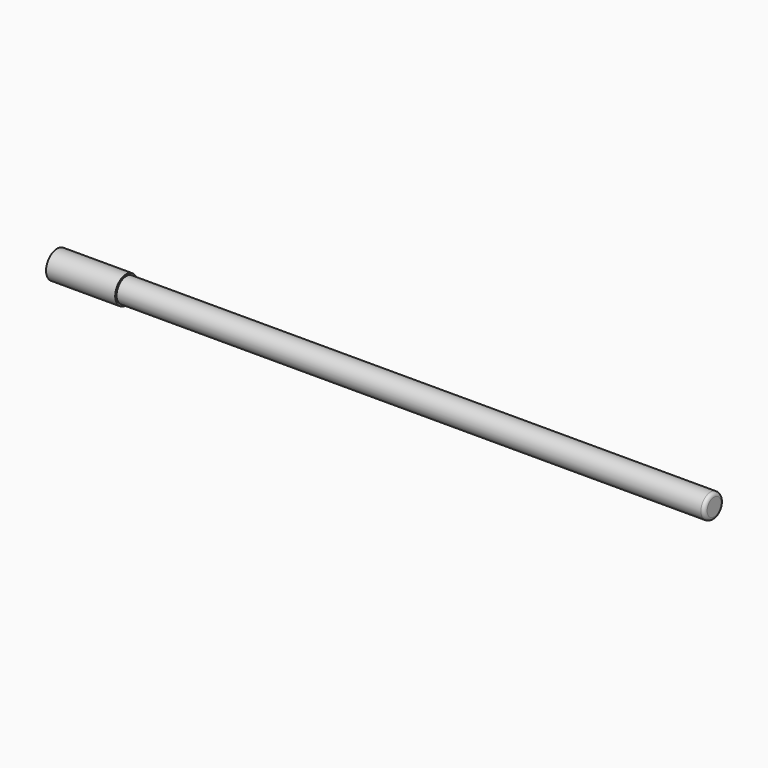
from build123d import *

# Parameters (mm, degrees)
F0_R     = 4
F1_DEPTH = 20
F2_R     = 3.5
F3_DEPTH = 170
F4_R     = 1


with BuildPart() as f1:
    # F0 (on Right) → F1 (new body)
    with BuildSketch(Plane.YZ):
        Circle(F0_R)
    extrude(amount=F1_DEPTH)

    # F2 (on face) → F3 (join)
    with BuildSketch(Plane.YZ.offset(20)):
        Circle(F2_R)
    extrude(amount=F3_DEPTH)

    # F4
    f4_edges = [f1.edges().sort_by_distance(p)[0] for p in [
        (190, -3.5, 0),
    ]]
    fillet(f4_edges, radius=F4_R)


solid = f1.part
